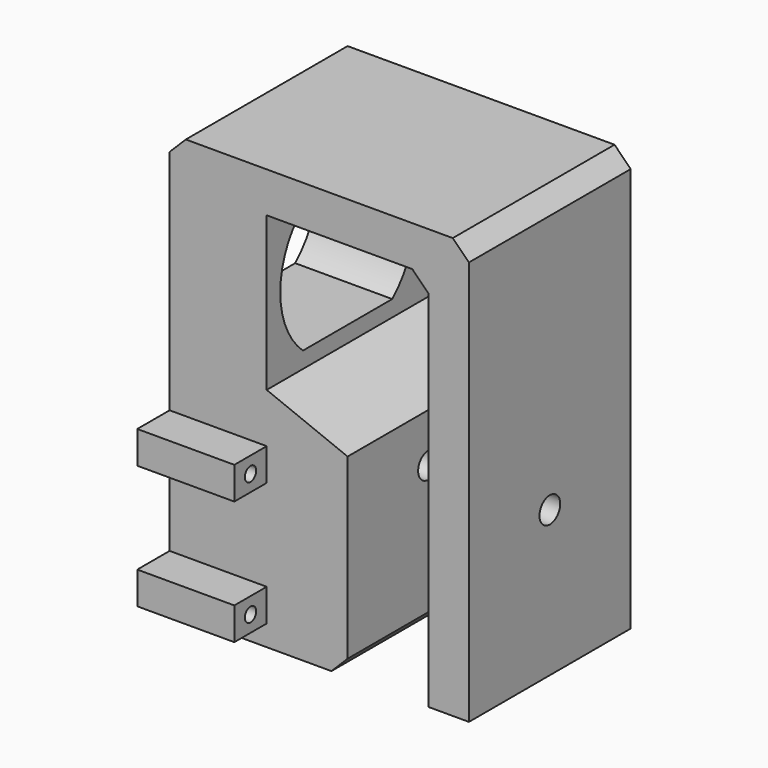
from build123d import *

# Parameters (mm, degrees)
F1_DEPTH = 25
F3_DEPTH = 25
F4_R     = 1.6
F5_DEPTH = 37.001
F6_SIZE  = 2
F7_W     = 5
F7_H     = 4
F7_R     = 0.875
F8_DEPTH = 12


with BuildPart() as f1:
    # F0 (on Front) → F1 (new body)
    with BuildSketch(Plane.XZ):
        Polygon((-8.225309, 26.877944), (-45.225309, 26.877944), (-45.225309, -25.122056), (-23.225309, -25.122056), (-23.225309, -1.122056), (-33.225309, 2.877944), (-33.225309, 21.877944), (-13.225309, 21.877944), (-13.225309, -25.122056), (-8.225309, -25.122056), align=None)
    extrude(amount=F1_DEPTH)

    # F2 (on face) → F3 (cut)
    with BuildSketch(Plane(origin=(-45.225309, 0, 0), x_dir=(0, -1, 0), z_dir=(-1, 0, 0))):
        with BuildLine():
            Line((19.4, 20.441103), (5.6, 20.441103))
            ThreePointArc((5.6, 20.441103), (2.1, 12.659715), (5.6, 4.878327))
            Line((5.6, 4.878327), (19.4, 4.878327))
            ThreePointArc((19.4, 4.878327), (22.9, 12.659715), (19.4, 20.441103))
        make_face()
    extrude(amount=-F3_DEPTH, mode=Mode.SUBTRACT)

    # F4 (on face) → F5 (cut, through all)
    with BuildSketch(Plane(origin=(-45.225309, 0, 0), x_dir=(0, -1, 0), z_dir=(-1, 0, 0))):
        with Locations((12.5, -7.121673)):
            Circle(F4_R)
    extrude(amount=-F5_DEPTH, mode=Mode.SUBTRACT)

    # F6
    f6_edges = [f1.edges().sort_by_distance(p)[0] for p in [
        (-45.225309, -12.5, -25.122056),
        (-23.225309, -12.5, -25.122056),
        (-13.225309, -12.5, 21.877944),
        (-8.225309, -12.5, 26.877944),
        (-45.225309, -12.5, 26.877944),
    ]]
    chamfer(f6_edges, length=F6_SIZE)

    # F7 (on face) → F8 (join, through all)
    with BuildSketch(Plane(origin=(-45.225309, 0, 0), x_dir=(0, -1, 0), z_dir=(-1, 0, 0))):
        with Locations((27.5, -20.542917)):
            Rectangle(F7_W, F7_H)
        with Locations((27.5, -20.542917)):
            Circle(F7_R, mode=Mode.SUBTRACT)
        with Locations((27.5, -5.242917)):
            Rectangle(F7_W, F7_H)
        with Locations((27.5, -5.242917)):
            Circle(F7_R, mode=Mode.SUBTRACT)
    extrude(amount=-F8_DEPTH)


solid = f1.part
